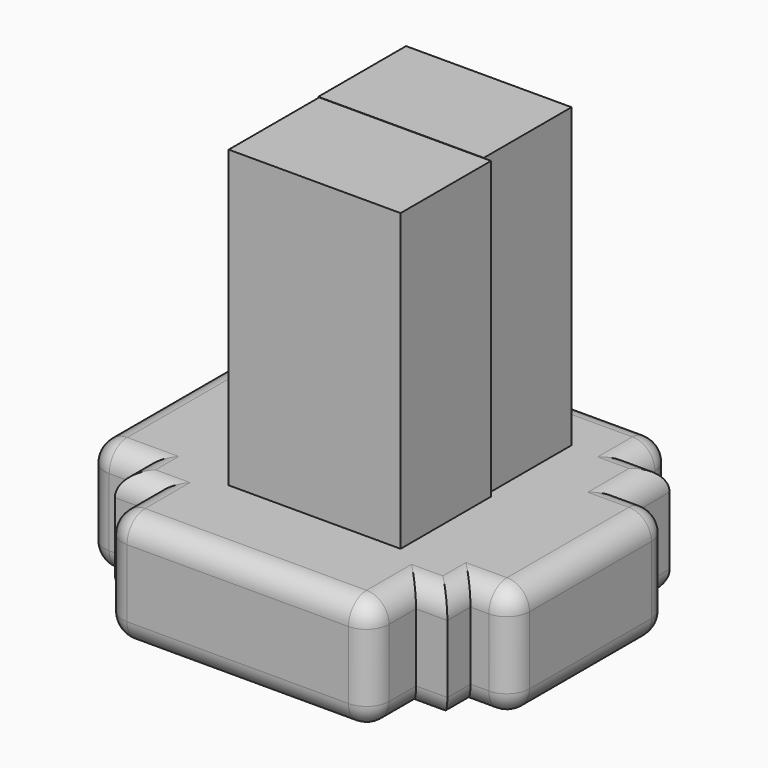
from build123d import *

# Parameters (mm, degrees)
F0_W     = 59.9075704813
F0_H     = 44.3893522024
F0_H_2   = 11.5484446287
F0_H_3   = 9.7440034151
F0_W_2   = 11.5484446287
F0_W_3   = 7.75911659
F0_H_4   = 6.4959973097
F0_H_5   = 12.6311182976
F0_W_4   = 9.2026740313
F0_W_5   = 7.0373415947
F1_DEPTH = 25.4
F2_R     = 5.08
F3_W     = 38.6151224375
F3_H     = 66.4035752416
F4_DEPTH = 25.4
F5_W     = 37.1871963143
F5_H     = 66.8618455529
F6_DEPTH = 24.6451962739


with BuildPart() as f1:
    # F0 (on Top) → F1 (new body)
    with BuildSketch(Plane.XY):
        with Locations((1.9848868251, -1.6240105033)):
            Rectangle(F0_W, F0_H)
        with Locations((1.9848868251, 26.3448879123)):
            Rectangle(F0_W, F0_H_2)
        with Locations((1.9848868251, 36.9911119342)):
            Rectangle(F0_W, F0_H_3)
        with Locations((-41.5022373199, -1.6240105033)):
            Rectangle(F0_W_2, F0_H)
        with Locations((-31.8484567106, 26.3448879123)):
            Rectangle(F0_W_3, F0_H_2)
        with Locations((-31.8484567106, -1.6240105033)):
            Rectangle(F0_W_3, F0_H)
        with Locations((1.9848868251, -27.0666852593)):
            Rectangle(F0_W, F0_H_4)
        with Locations((1.9848868251, -36.630243063)):
            Rectangle(F0_W, F0_H_5)
        with Locations((-31.8484567106, -27.0666852593)):
            Rectangle(F0_W_3, F0_H_4)
        with Locations((43.5773506761, -1.6240105033)):
            Rectangle(F0_W_4, F0_H)
        with Locations((35.4573428631, 26.3448879123)):
            Rectangle(F0_W_5, F0_H_2)
        with Locations((35.4573428631, -27.0666852593)):
            Rectangle(F0_W_5, F0_H_4)
        with Locations((35.4573428631, -1.6240105033)):
            Rectangle(F0_W_5, F0_H)
    extrude(amount=F1_DEPTH)

    # F2
    f2_edges = [f1.edges().sort_by_distance(p)[0] for p in [
        (1.984887, 41.863114, 25.4),
        (-27.968898, 36.991112, 25.4),
        (-31.848457, 32.11911, 25.4),
        (-35.728015, 26.344888, 25.4),
        (-41.502237, 20.570666, 25.4),
        (-47.27646, -1.624011, 25.4),
        (-41.502237, -23.818687, 25.4),
        (-35.728015, -27.066685, 25.4),
        (-31.848457, -30.314684, 25.4),
        (-27.968898, -36.630243, 25.4),
        (1.984887, -42.945802, 25.4),
        (31.938672, -36.630243, 25.4),
        (35.457343, -30.314684, 25.4),
        (38.976014, -27.066685, 25.4),
        (43.577351, -23.818687, 25.4),
        (48.178688, -1.624011, 25.4),
        (43.577351, 20.570666, 25.4),
        (38.976014, 26.344888, 25.4),
        (35.457343, 32.11911, 25.4),
        (31.938672, 36.991112, 25.4),
        (1.984887, 41.863114, 0),
        (-27.968898, 36.991112, 0),
        (-31.848457, 32.11911, 0),
        (-35.728015, 26.344888, 0),
        (-41.502237, 20.570666, 0),
        (-47.27646, -1.624011, 0),
        (-41.502237, -23.818687, 0),
        (-35.728015, -27.066685, 0),
        (-31.848457, -30.314684, 0),
        (-27.968898, -36.630243, 0),
        (1.984887, -42.945802, 0),
        (31.938672, -36.630243, 0),
        (35.457343, -30.314684, 0),
        (38.976014, -27.066685, 0),
        (43.577351, -23.818687, 0),
        (48.178688, -1.624011, 0),
        (43.577351, 20.570666, 0),
        (38.976014, 26.344888, 0),
        (35.457343, 32.11911, 0),
        (31.938672, 36.991112, 0),
        (-27.968898, -42.945802, 12.7),
        (31.938672, -42.945802, 12.7),
        (-47.27646, 20.570666, 12.7),
        (-47.27646, -23.818687, 12.7),
        (31.938672, 41.863114, 12.7),
        (-27.968898, 41.863114, 12.7),
        (48.178688, -23.818687, 12.7),
        (48.178688, 20.570666, 12.7),
    ]]
    fillet(f2_edges, radius=F2_R)


with BuildPart() as f4:
    # F3 (on Front) → F4 (new body)
    with BuildSketch(Plane.XZ):
        with Locations((5.2328929305, 60.9902329743)):
            Rectangle(F3_W, F3_H)
    extrude(amount=F4_DEPTH)

    # F5 (on Front) → F6 (join)
    with BuildSketch(Plane.XZ):
        with Locations((4.3197311461, 60.8326978981)):
            Rectangle(F5_W, F5_H)
    extrude(amount=-F6_DEPTH)


solid = Compound([f1.part, f4.part])
